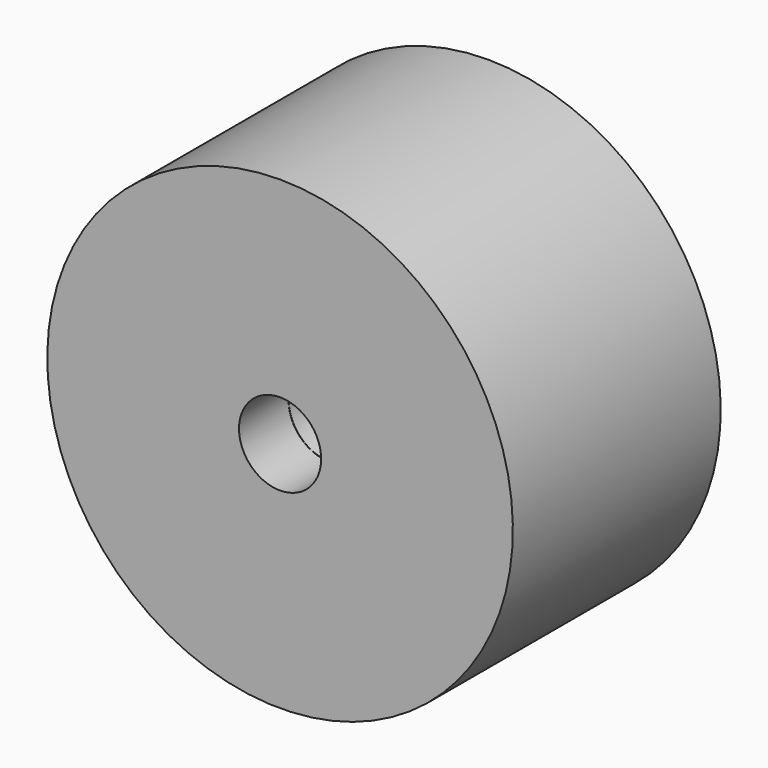
from build123d import *


with BuildPart() as f1:
    # F0 (on Right) → F1 (revolve)
    with BuildSketch(Plane.YZ):
        with BuildLine():
            Line((0, 28.671082), (0, 5.059838))
            Line((0, 5.059838), (7.62, 5.059838))
            Line((7.62, 5.059838), (7.62, 5.024209))
            Line((7.62, 5.024209), (17.62, 5.024209))
            Line((17.62, 5.024209), (17.62, 7.564209))
            Line((17.62, 7.564209), (7.62, 7.564209))
            Line((7.62, 7.564209), (7.62, 22.591082))
            ThreePointArc((7.62, 22.591082), (7.912893, 23.298189), (8.62, 23.591082))
            Line((8.62, 23.591082), (32, 23.591082))
            Line((32, 23.591082), (32, 28.671082))
            Line((32, 28.671082), (0, 28.671082))
        make_face()
    revolve(axis=Axis((0, -0.662774, 0), (0, 1, 0)))


solid = f1.part
